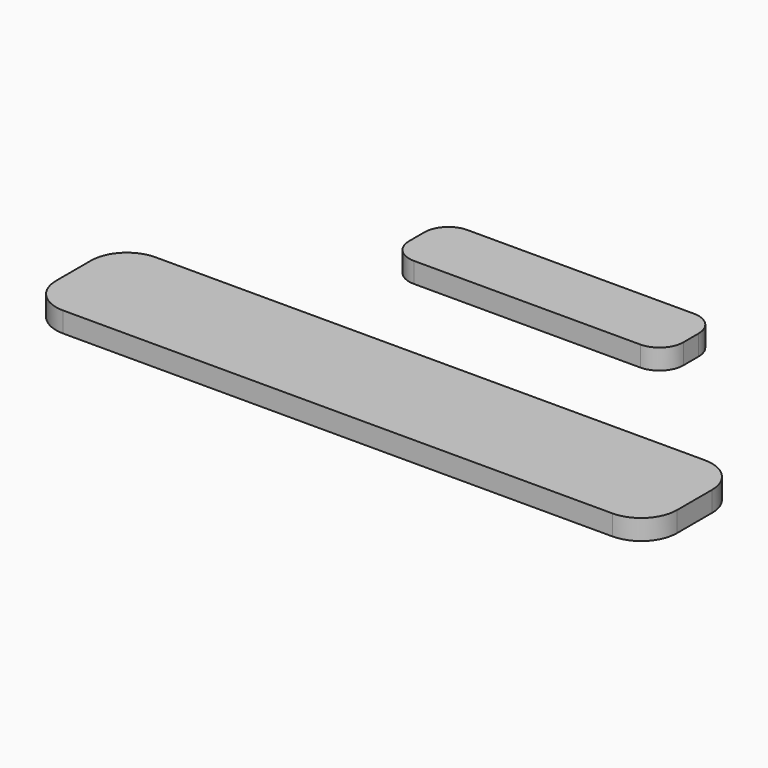
from build123d import *

# Parameters (mm, degrees)
F1_DEPTH = 2.159


with BuildPart() as f1:
    # F0 (on Top) → F1 (new body)
    with BuildSketch(Plane.XY):
        with BuildLine():
            Line((-12.0396, 19.031858), (12.0396, 19.031858))
            ThreePointArc((12.0396, 19.031858), (13.835651, 19.775807), (14.5796, 21.571858))
            Line((14.5796, 21.571858), (14.5796, 23.603858))
            ThreePointArc((14.5796, 23.603858), (13.835651, 25.399909), (12.0396, 26.143858))
            Line((12.0396, 26.143858), (-12.0396, 26.143858))
            ThreePointArc((-12.0396, 26.143858), (-13.835651, 25.399909), (-14.5796, 23.603858))
            Line((-14.5796, 23.603858), (-14.5796, 21.571858))
            ThreePointArc((-14.5796, 21.571858), (-13.835651, 19.775807), (-12.0396, 19.031858))
        make_face()
        with BuildLine():
            Line((-29.21, -6.1341), (29.21, -6.1341))
            ThreePointArc((29.21, -6.1341), (31.904077, -5.018177), (33.02, -2.3241))
            Line((33.02, -2.3241), (33.02, 2.3241))
            ThreePointArc((33.02, 2.3241), (31.904077, 5.018177), (29.21, 6.1341))
            Line((29.21, 6.1341), (-29.21, 6.1341))
            ThreePointArc((-29.21, 6.1341), (-31.904077, 5.018177), (-33.02, 2.3241))
            Line((-33.02, 2.3241), (-33.02, -2.3241))
            ThreePointArc((-33.02, -2.3241), (-31.904077, -5.018177), (-29.21, -6.1341))
        make_face()
    extrude(amount=F1_DEPTH)


solid = f1.part
